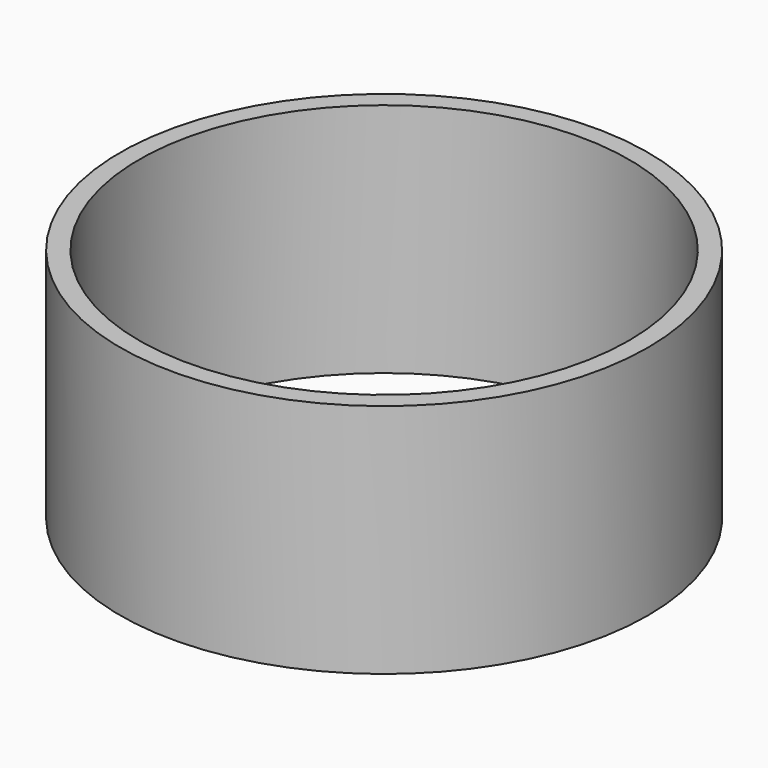
from build123d import *

# Parameters (mm, degrees)
SKETCH_R   = 22.385
SKETCH_R_2 = 20.775
PAD_DEPTH  = 20


with BuildPart() as part:
    # Sketch (on XY_Plane of Origin) → Pad (new body)
    with BuildSketch(Plane.XY):
        Circle(SKETCH_R)
        Circle(SKETCH_R_2, mode=Mode.SUBTRACT)
    extrude(amount=PAD_DEPTH)


solid = part.part
